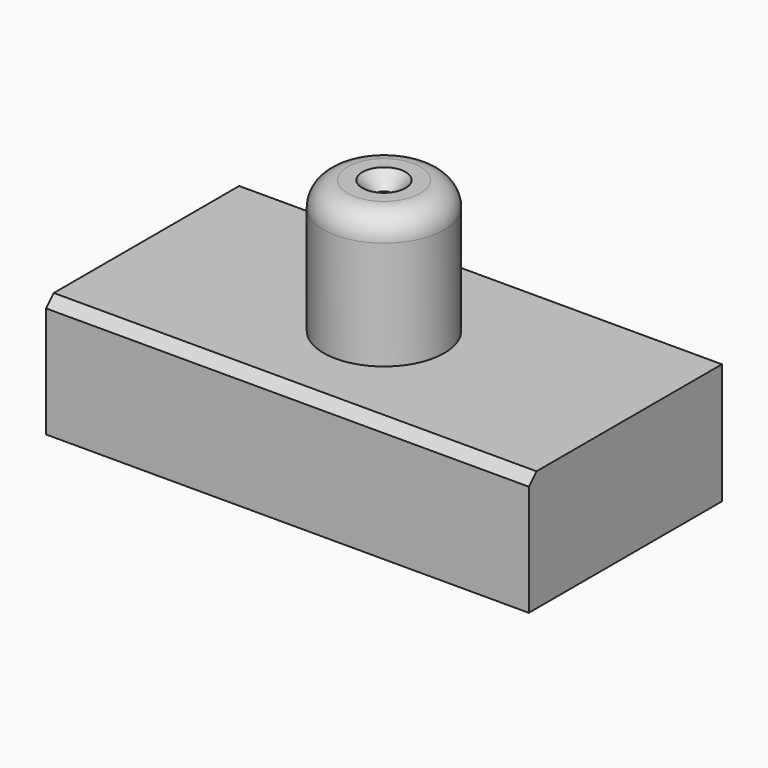
from build123d import *

# Parameters (mm, degrees)
F0_W           = 100
F0_H           = 25
F1_DEPTH       = 50
F2_SIZE        = 2
F3_R           = 12.5
F4_DEPTH       = 27.5
F5_R           = 5
F7_D           = 3.2
F7_CSINK_D     = 8.96
F7_CSINK_ANGLE = 90


with BuildPart() as f1:
    # F0 (on Front) → F1 (new body)
    with BuildSketch(Plane.XZ):
        with Locations((0.2977304684, -1.6892874761)):
            Rectangle(F0_W, F0_H)
    extrude(amount=F1_DEPTH)

    # F2
    f2_edges = [f1.edges().sort_by_distance(p)[0] for p in [
        (0.29773, -50, 10.810713),
    ]]
    chamfer(f2_edges, length=F2_SIZE)

    # F3 (on face) → F4 (join)
    with BuildSketch(Plane.XY.offset(10.8107125239)):
        with Locations((0.2977304684, -25)):
            Circle(F3_R)
    extrude(amount=F4_DEPTH)

    # F5
    f5_edges = [f1.edges().sort_by_distance(p)[0] for p in [
        (-12.20227, -25, 38.310713),
    ]]
    fillet(f5_edges, radius=F5_R)

    # F7 (through all)
    with Locations(Plane.XY.offset(38.3107125239)):
        with Locations((0.2977304684, -25)):
            CounterSinkHole(F7_D / 2, F7_CSINK_D / 2, counter_sink_angle=F7_CSINK_ANGLE)


solid = f1.part
